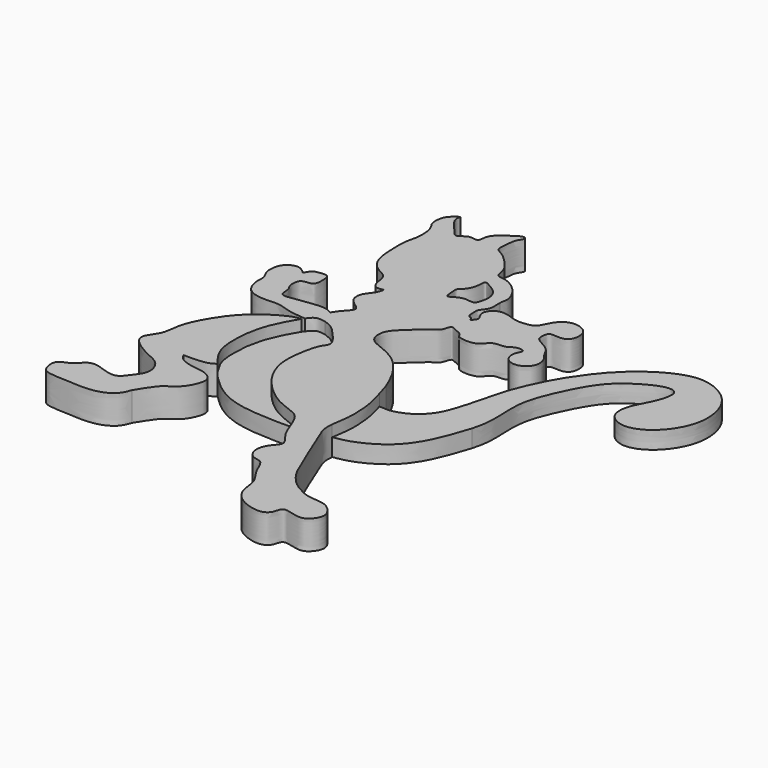
from build123d import *

# Parameters (mm, degrees)
F1_DEPTH = 8.382
F2_DEPTH = 5.08


with BuildPart() as f1:
    # F0 (on Top) → F1 (new body)
    with BuildSketch(Plane.XY):
        with BuildLine():
            add(Edge.make_bspline(
                [(-30.6766405702, 33.2564599812), (-31.3413036876, 33.1320931944), (-32.5782253901, 32.9006496653), (-33.8654036669, 33.8193248425), (-34.3694778358, 35.7624551061), (-34.3863487345, 37.1360827609), (-35.1923799163, 38.9015927856), (-37.0617365235, 39.7281938702), (-39.9424943412, 41.5929814185), (-41.5446330036, 45.4333418296), (-41.7570720515, 49.9837018923), (-41.8784530329, 54.7460837564), (-41.0405708566, 57.0577786823), (-40.7911931082, 60.2639953013), (-40.9434426039, 61.327236693), (-41.0056933761, 61.7619678378)],
                knots=[0, 0, 0, 0, 0.06671763, 0.1241598673, 0.1913384022, 0.2493362913, 0.3134739167, 0.3820785631, 0.4704085174, 0.5675468727, 0.6731650373, 0.7777710152, 0.8552476991, 0.9408146316, 1, 1, 1, 1], degree=3))
            add(Edge.make_bspline(
                [(-33.2912616432, 17.0474480838), (-32.7619607777, 17.8578643867), (-31.7196817617, 19.4537051679), (-28.9590219705, 21.9083301421), (-31.6294858689, 23.6614287989), (-33.6259584907, 25.3915392506), (-33.6865979894, 28.5475934375), (-31.2659788816, 30.9639459435), (-30.8610933715, 32.5389423378), (-30.6766405702, 33.2564599812)],
                knots=[0, 0, 0, 0, 0.1503681343, 0.2960991777, 0.4295792583, 0.5702847292, 0.7130662668, 0.8692822302, 1, 1, 1, 1], degree=3))
            add(Edge.make_bspline(
                [(-50.2869673073, 28.3451713622), (-49.9278704247, 29.0323980442), (-49.2496223987, 30.3304046909), (-47.6195850085, 30.7243879572), (-44.5993884328, 31.1444891856), (-44.5187037602, 28.3357639664), (-44.4785505157, 25.0921635909), (-47.8113997543, 25.4178459253), (-48.809757665, 24.0984490255), (-48.8770084638, 21.3899571322), (-47.5028810392, 20.0210596175), (-47.9954304371, 16.5159469081), (-44.2025487916, 17.0988400718), (-40.6767804952, 17.6290247992), (-35.6545276393, 18.3105881101), (-33.9888654298, 17.4203097366), (-33.2912616432, 17.0474480838)],
                knots=[0, 0, 0, 0, 0.0651782763, 0.1231061571, 0.192820447, 0.261105658, 0.3347754227, 0.4068035844, 0.4608341538, 0.5309008507, 0.5930949625, 0.6652009245, 0.7402731641, 0.8299875784, 0.9287963019, 1, 1, 1, 1], degree=3))
            add(Edge.make_bspline(
                [(-35.9442275826, 11.1240944408), (-37.5839272342, 11.2206024397), (-40.7133059149, 11.403787601), (-44.5353737189, 13.1657924862), (-48.4490777376, 12.569727537), (-54.7580383675, 13.2709584082), (-56.1856510525, 18.8926032585), (-55.5336805413, 21.0772556746), (-57.1594319584, 23.2052619362), (-57.2216005633, 26.0211025081), (-56.296959629, 29.0235320927), (-52.7030464794, 30.5454741786), (-51.0829924239, 29.0701046862), (-50.2869673073, 28.3451713622)],
                knots=[0, 0, 0, 0, 0.1056593846, 0.2017052822, 0.298028903, 0.413183266, 0.5207576306, 0.5916373543, 0.6659582427, 0.7460231306, 0.8294577539, 0.9162047999, 1, 1, 1, 1], degree=3))
            add(Edge.make_bspline(
                [(-31.4814224839, 12.7876922488), (-31.9110444218, 12.8751935142), (-32.8005612392, 13.0563617466), (-34.4706019273, 13.0061754325), (-35.3885476378, 11.8771587196), (-35.8539815263, 11.2488969536), (-35.9442275826, 11.1240944408)],
                knots=[0, 0, 0, 0, 0.0587413229, 0.1216218029, 0.1905048695, 0.2073552717, 0.2073552717, 0.2073552717, 0.2073552717], degree=3))
            add(Edge.make_bspline(
                [(-8.0787767996, -27.4609330144), (-8.8595777775, -26.7357062197), (-11.1664534508, -25.8006106136), (-16.1763048412, -24.0994295894), (-23.1737296328, -17.9282230836), (-26.7396045151, -10.5736807708), (-26.5901811331, -3.8148187925), (-25.1017264801, 2.931803867), (-22.8276895725, 4.9188025827), (-26.2040786581, 9.2433080974), (-29.1048658393, 12.0811019623), (-30.774127386, 12.5774015128), (-31.4814224839, 12.7876922488)],
                knots=[0.6492410765, 0.6492410765, 0.6492410765, 0.6492410765, 0.673526059, 0.710568626, 0.7584620106, 0.802939906, 0.8442562009, 0.8849478536, 0.9089591591, 0.9434385533, 0.976033933, 1, 1, 1, 1], degree=3))
            add(Edge.make_bspline(
                [(15.0585612282, -54.6975657344), (16.392013966, -55.455302175), (19.053480282, -56.9676842459), (23.7846544839, -56.6952692806), (26.6439186441, -58.5492646353), (28.546215152, -61.7094887223), (26.6620774707, -64.9631471273), (23.7587356285, -66.4834918921), (18.1225919802, -63.8654216821), (18.0622854392, -67.863124647), (15.0287090329, -69.9672365672), (7.6502362678, -67.5569575629), (5.2716674977, -62.6953962018), (5.4747056644, -58.4140716827), (1.9695584515, -54.4860574316), (0.572557137, -49.4485411848), (-2.7543315001, -49.7593564741), (-4.9130444241, -46.5808119184), (-3.7731702383, -42.5264248507), (-0.3041190407, -39.7790995728), (-4.7339637258, -36.1509116584), (-6.2161851578, -29.5111496098), (-7.8404901403, -27.6822594151), (-8.0787767996, -27.4609330144)],
                knots=[0, 0, 0, 0, 0.0336520411, 0.0671668153, 0.0956689803, 0.1241317643, 0.1525945483, 0.1805715387, 0.2151687201, 0.2407500013, 0.2685833975, 0.3106701769, 0.346256729, 0.3777317138, 0.4137793929, 0.4477408215, 0.4733328263, 0.5016498166, 0.5333556544, 0.5621797987, 0.5959573368, 0.6418297291, 0.6492410765, 0.6492410765, 0.6492410765, 0.6492410765], degree=3))
            add(Edge.make_bspline(
                [(1.3496457832, -25.5872774869), (1.2178413614, -26.7916681294), (1.2523426335, -29.15687183), (3.2024996845, -33.0234051457), (4.9322938559, -38.2483398694), (7.8457972936, -44.0773619468), (9.2292360254, -48.6008116099), (12.4232596441, -52.8864793873), (14.2555285607, -54.1456890501), (15.0585612282, -54.6975657344)],
                knots=[0.3870802323, 0.3870802323, 0.3870802323, 0.3870802323, 0.4628965552, 0.546065326, 0.642552216, 0.7460916049, 0.8357334601, 0.9280065298, 1, 1, 1, 1], degree=3))
            add(Edge.make_bspline(
                [(0.2809970935, -7.0899995308), (0.4464666089, -7.6510335546), (1.1017032626, -9.923183598), (2.0595523492, -13.8256359793), (2.2957506978, -20.824752715), (1.5043732838, -24.1734223875), (1.3496457832, -25.5872774869)],
                knots=[0.0673496222, 0.0673496222, 0.0673496222, 0.0673496222, 0.0974509285, 0.1909054182, 0.2980781335, 0.3870802323, 0.3870802323, 0.3870802323, 0.3870802323], degree=3))
            add(Edge.make_bspline(
                [(-0.88812795, -3.2492720056), (-0.4886788126, -4.5419980634), (-0.0892296752, -5.8347241212), (0.2809970935, -7.0899995308)],
                knots=[0, 0, 0, 0, 0.0673496222, 0.0673496222, 0.0673496222, 0.0673496222], degree=3))
            add(Edge.make_bspline(
                [(-6.1729894951, 44.7657778859), (-6.2537490014, 43.7873641368), (-5.8784744738, 41.9586892223), (-6.8504992806, 40.019721474), (-8.0498952269, 38.8060862283), (-7.8624284902, 37.1063632237), (-7.8865639914, 35.0055996017), (-6.4092043599, 34.9670658324), (-6.273043479, 33.6329964984), (-5.3386285218, 34.9654841121), (-4.9798548018, 35.6890782321), (-5.583695346, 36.6278238887), (-6.4444621158, 38.1995113466), (-5.7398521403, 40.0898928696), (-3.888480616, 41.5090499594), (-1.0757772684, 41.4099099873), (1.8154624808, 40.0626334634), (4.6605670024, 40.2422809029), (7.7771907669, 40.7652741928), (8.9453800024, 45.0778860653), (12.4871191867, 47.672502326), (16.0919486007, 46.8238410712), (18.1101342894, 45.0105642473), (18.1616543235, 40.8521227745), (15.376326067, 39.4951887824), (11.8029881873, 40.4040796842), (11.4874782681, 38.1831770156), (11.4205520662, 36.3530209005), (13.7733328333, 35.0994594579), (16.538330075, 33.5164967566), (17.4628868469, 30.8629809569), (19.2595685691, 29.2175209886), (19.6286054054, 25.7454751497), (17.5794958341, 23.8371649917), (15.6221497305, 22.9636582756), (12.5336549787, 23.6677473243), (11.5437890669, 26.4589775), (12.2730198515, 28.2766993318), (13.1189280302, 30.0232899452), (9.8110707841, 30.0307399873), (8.4735588519, 28.2648474525), (4.4154841534, 28.8239838287), (3.1889679269, 25.9499172893), (0.1269099654, 25.1706513227), (-3.3476636053, 25.685319464), (-3.5120066649, 27.3023876598), (-6.1325086131, 28.1703323403), (-7.6903575841, 29.1954196962), (-8.0640527286, 25.8813721827), (-10.2550297066, 25.0223440067), (-13.5191069725, 21.9190155736), (-16.73731839, 19.1827642669), (-18.2989751538, 16.3295766337), (-17.7322680441, 12.3166751663), (-13.1797572559, 10.7039093731), (-7.7672755367, 8.266780384), (-3.1020390748, 2.1556299616), (-1.5948231977, -1.5239894946), (-0.88812795, -3.2492720056)],
                knots=[0, 0, 0, 0, 0.018699926, 0.0346616368, 0.0486015491, 0.0631242187, 0.0781190824, 0.0899640586, 0.0995369458, 0.1113628794, 0.1215169991, 0.1326574254, 0.1472571936, 0.1623524811, 0.1787534595, 0.196986177, 0.2167497561, 0.2355134237, 0.2539611463, 0.2765135881, 0.2989534104, 0.3193285318, 0.3370876475, 0.3580511628, 0.3764431686, 0.3960581302, 0.410448311, 0.4248246999, 0.4422175183, 0.4620886608, 0.4801868243, 0.4973649316, 0.5169961977, 0.5348395927, 0.5509498468, 0.5696228477, 0.5875523765, 0.6034215083, 0.6159088946, 0.6330869963, 0.6496764256, 0.6703600959, 0.6884235154, 0.707969151, 0.7276402495, 0.7401486807, 0.7584132279, 0.770958141, 0.7884130773, 0.8052143337, 0.8287670329, 0.8518933205, 0.8714919337, 0.8919826085, 0.9153347084, 0.9426430863, 0.9731211554, 1, 1, 1, 1], degree=3))
            add(Edge.make_bspline(
                [(-41.0056933761, 61.7619678378), (-41.0386629702, 62.0591294718), (-41.1158422414, 62.7547618866), (-41.8142861882, 64.4330219273), (-42.7817207695, 65.5369728593), (-42.7676391801, 68.0973148347), (-42.1704862549, 70.3279191261), (-39.0933254859, 72.5523917117), (-39.8767626683, 71.2240895671), (-39.4916084152, 69.7782119357), (-38.351656484, 68.0540954037), (-36.3266044133, 66.1050612377), (-34.9190582835, 63.8270053723), (-33.3474829461, 64.8032763687), (-31.9004957161, 66.169729434), (-28.8409636821, 64.9059083251), (-29.1682391416, 68.5630112248), (-26.529238521, 70.8901565309), (-22.0247214392, 74.0427306342), (-21.2246429412, 72.5795984874), (-22.8697235638, 70.7737607446), (-22.7359877177, 68.0859881853), (-23.5164581309, 64.8612192008), (-20.643671269, 63.8598937847), (-17.3128994719, 60.4761977201), (-15.3559839727, 57.8348530007), (-15.1824966655, 54.4218239288), (-12.7909683142, 54.7750991185), (-8.9650775632, 52.9192480619), (-6.3972285833, 49.5383066433), (-5.6387038881, 46.690824388), (-6.1906327232, 45.3700813422), (-6.1729894951, 44.7657778859)],
                knots=[0, 0, 0, 0, 0.0213541132, 0.0499766695, 0.075973692, 0.1089287306, 0.1439506337, 0.179241401, 0.1969808899, 0.2233271035, 0.2542334969, 0.291473776, 0.3238911689, 0.3495244102, 0.3796477538, 0.4122312676, 0.4461461734, 0.488645943, 0.5362944444, 0.5556062838, 0.5872623818, 0.6234693389, 0.659490305, 0.6938320732, 0.7409471256, 0.781073914, 0.8165810588, 0.8456816045, 0.8897388384, 0.9344217948, 0.9702990359, 1, 1, 1, 1], degree=3))
        make_face()
        with BuildLine():
            add(Edge.make_bspline(
                [(-10.8569506556, 41.2209741771), (-11.4147845587, 40.9293049489), (-13.5049966148, 41.5750108991), (-15.7502278249, 40.7470870589), (-17.930666265, 39.1175191178), (-17.8800453526, 41.9921892545), (-18.3510727071, 44.0772340767), (-16.3943477811, 44.9696981861), (-15.1487769051, 48.3328834423), (-15.4657084844, 51.0999713441), (-13.2621354295, 49.7867932897), (-10.9515602651, 48.4838222294), (-9.7871861671, 46.4222704224), (-9.6393820291, 44.3390213156), (-10.1156224701, 42.738134191), (-10.4086249918, 41.4553858893), (-10.8569506556, 41.2209741771)],
                knots=[0, 0, 0, 0, 0.0767818994, 0.155854554, 0.2211009923, 0.2911176103, 0.3604204364, 0.4249805386, 0.5181240441, 0.5862988669, 0.6501384982, 0.7323080737, 0.80535108, 0.8740096085, 0.9382911368, 1, 1, 1, 1], degree=3))
        make_face(mode=Mode.SUBTRACT)
    extrude(amount=F1_DEPTH)


with BuildPart() as f1b:
    # F0 (on Top) → F1, piece 2 (new body)
    with BuildSketch(Plane.XY):
        with BuildLine():
            add(Edge.make_bspline(
                [(-36.4190484267, 10.4362616037), (-36.5654860704, 10.2137617534), (-37.2617097674, 9.1091561753), (-38.864663687, 6.129379414), (-40.7214060907, 2.0590395138), (-41.7984065109, -3.0590469665), (-42.0529265544, -8.5477672387), (-41.2990556593, -13.2550073898), (-39.1858843246, -16.5606210566), (-37.9907493007, -18.0042772902), (-37.4458953738, -18.662430346)],
                knots=[0.2371988555, 0.2371988555, 0.2371988555, 0.2371988555, 0.2646814074, 0.3655946716, 0.4736222846, 0.5891319618, 0.7082244783, 0.8183074037, 0.9171675814, 1, 1, 1, 1], degree=3))
            add(Edge.make_bspline(
                [(-44.5271134377, -40.7912433147), (-44.9347036216, -41.8937575872), (-45.847217933, -44.3620703481), (-51.073869767, -47.0096668427), (-59.256742889, -46.4254857019), (-63.8233238784, -46.2426384346), (-66.7163161978, -45.4356716373), (-67.4960007882, -40.0385767384), (-63.5324126052, -39.6220761682), (-61.5696963809, -36.8094412726), (-58.6499600551, -35.4804685631), (-52.0212757315, -39.0028223978), (-49.4085869179, -35.0177578178), (-46.5115281067, -31.6033635511), (-48.4122360148, -26.5086388294), (-52.8821895327, -24.9426676931), (-58.2513154857, -21.7868316325), (-59.9037361252, -18.520913141), (-56.1817062416, -14.7477310915), (-56.4740715466, -9.0497460298), (-52.2494863308, -0.9683752231), (-46.9227866364, 5.6789010923), (-39.0377286683, 10.252798793), (-37.0893762661, 10.3897628681), (-36.4190484267, 10.4362616037)],
                knots=[0, 0, 0, 0, 0.039058052, 0.0874443162, 0.1473177969, 0.1918171235, 0.2252144983, 0.2672872223, 0.3043541062, 0.3417411805, 0.377081379, 0.4297342629, 0.4709180709, 0.5137743644, 0.5576161204, 0.6028839308, 0.6545136542, 0.6899475564, 0.7339147346, 0.7827407966, 0.8442873559, 0.9068808506, 0.9679830853, 1, 1, 1, 1], degree=3))
            add(Edge.make_bspline(
                [(-46.1867749691, -20.1008021832), (-45.8276222811, -20.7346703023), (-44.9811961818, -22.228526641), (-40.660836971, -23.3871770094), (-37.5161141064, -23.3754303642), (-33.8416340746, -25.708604543), (-35.1163547034, -29.791736748), (-37.1892820435, -33.0570588436), (-40.6391744368, -34.8056745156), (-42.6716322731, -37.797518037), (-43.9089729259, -39.793904775), (-44.5271134377, -40.7912433147)],
                knots=[0, 0, 0, 0, 0.0895732004, 0.2110998948, 0.3198967212, 0.4315218564, 0.5454949252, 0.6625860405, 0.776940844, 0.8885659333, 1, 1, 1, 1], degree=3))
            add(Edge.make_bspline(
                [(-37.4458953738, -18.662430346), (-38.0483963204, -19.0383239311), (-39.4017725724, -19.8826801999), (-42.9245096211, -20.1588296338), (-45.1068177371, -20.1200118912), (-46.1867749691, -20.1008021832)],
                knots=[0, 0, 0, 0, 0.2884162476, 0.6478590654, 1, 1, 1, 1], degree=3))
        make_face()
    extrude(amount=F1_DEPTH)


with BuildPart() as f2:
    # F0 (on Top) → F2 (new body)
    with BuildSketch(Plane.XY):
        with BuildLine():
            add(Edge.make_bspline(
                [(-31.4814224839, 12.7876922488), (-31.9110444218, 12.8751935142), (-32.8005612392, 13.0563617466), (-34.4706019273, 13.0061754325), (-35.3885476378, 11.8771587196), (-35.8539815263, 11.2488969536), (-35.9442275826, 11.1240944408)],
                knots=[0, 0, 0, 0, 0.0587413229, 0.1216218029, 0.1905048695, 0.2073552717, 0.2073552717, 0.2073552717, 0.2073552717], degree=3))
            add(Edge.make_bspline(
                [(-35.9442275826, 11.1240944408), (-36.1040614965, 10.9030579224), (-36.2600302936, 10.6778764639), (-36.4190484267, 10.4362616037)],
                knots=[0.2073552717, 0.2073552717, 0.2073552717, 0.2073552717, 0.2371988555, 0.2371988555, 0.2371988555, 0.2371988555], degree=3))
            add(Edge.make_bspline(
                [(-36.4190484267, 10.4362616037), (-36.5654860704, 10.2137617534), (-37.2617097674, 9.1091561753), (-38.864663687, 6.129379414), (-40.7214060907, 2.0590395138), (-41.7984065109, -3.0590469665), (-42.0529265544, -8.5477672387), (-41.2990556593, -13.2550073898), (-39.1858843246, -16.5606210566), (-37.9907493007, -18.0042772902), (-37.4458953738, -18.662430346)],
                knots=[0.2371988555, 0.2371988555, 0.2371988555, 0.2371988555, 0.2646814074, 0.3655946716, 0.4736222846, 0.5891319618, 0.7082244783, 0.8183074037, 0.9171675814, 1, 1, 1, 1], degree=3))
            add(Edge.make_bspline(
                [(-37.4458953738, -18.662430346), (-36.0393506569, -20.0536832662), (-33.0401252487, -23.0206379101), (-26.071880794, -26.7033425944), (-15.7828730971, -27.5221907467), (-10.5193498352, -27.4768565052), (-8.0787767996, -27.4609330144)],
                knots=[0, 0, 0, 0, 0.2190981689, 0.4671251994, 0.7526377305, 1, 1, 1, 1], degree=3))
            add(Edge.make_bspline(
                [(-8.0787767996, -27.4609330144), (-8.8595777775, -26.7357062197), (-11.1664534508, -25.8006106136), (-16.1763048412, -24.0994295894), (-23.1737296328, -17.9282230836), (-26.7396045151, -10.5736807708), (-26.5901811331, -3.8148187925), (-25.1017264801, 2.931803867), (-22.8276895725, 4.9188025827), (-26.2040786581, 9.2433080974), (-29.1048658393, 12.0811019623), (-30.774127386, 12.5774015128), (-31.4814224839, 12.7876922488)],
                knots=[0.6492410765, 0.6492410765, 0.6492410765, 0.6492410765, 0.673526059, 0.710568626, 0.7584620106, 0.802939906, 0.8442562009, 0.8849478536, 0.9089591591, 0.9434385533, 0.976033933, 1, 1, 1, 1], degree=3))
        make_face()
    extrude(amount=F2_DEPTH)


with BuildPart() as f2b:
    # F0 (on Top) → F2, piece 2 (new body)
    with BuildSketch(Plane.XY):
        with BuildLine():
            add(Edge.make_bspline(
                [(0.2809970935, -7.0899995308), (1.3006964389, -7.1947244444), (3.5822636131, -7.4448525406), (8.5653542252, -5.637311252), (12.4175938163, -1.8906193963), (14.576949991, 3.3692676106), (16.7288375201, 11.8553726257), (18.2227312236, 18.1174368718), (21.989362939, 26.2580779699), (23.6732877933, 29.0389361787), (24.379145354, 30.2046015859)],
                knots=[0, 0, 0, 0, 0.0926351241, 0.2095280268, 0.3272216723, 0.450380371, 0.6017095545, 0.7369046379, 0.8897964091, 1, 1, 1, 1], degree=3))
            add(Edge.make_bspline(
                [(0.2809970935, -7.0899995308), (0.4464666089, -7.6510335546), (1.1017032626, -9.923183598), (2.0595523492, -13.8256359793), (2.2957506978, -20.824752715), (1.5043732838, -24.1734223875), (1.3496457832, -25.5872774869)],
                knots=[0.0673496222, 0.0673496222, 0.0673496222, 0.0673496222, 0.0974509285, 0.1909054182, 0.2980781335, 0.3870802323, 0.3870802323, 0.3870802323, 0.3870802323], degree=3))
            add(Edge.make_bspline(
                [(23.3953911811, -2.435577102), (22.4604589349, -5.3293837124), (20.5500301827, -11.2425516173), (15.4549509795, -19.9732102017), (6.554820766, -24.7409411481), (2.8897459606, -25.3368646286), (1.3496457832, -25.5872774869)],
                knots=[0, 0, 0, 0, 0.2622193412, 0.5358156924, 0.8049452269, 1, 1, 1, 1], degree=3))
            add(Edge.make_bspline(
                [(24.379145354, 30.2046015859), (26.0291757787, 32.6677352369), (29.3868138637, 37.679952728), (36.4223297235, 44.1858582868), (44.2437096122, 48.5083697491), (51.3863058827, 49.2569556942), (58.9054047322, 45.1693057424), (62.081177166, 38.3526279646), (62.0613485988, 31.0327482494), (58.3461774445, 24.2948939712), (53.1907432816, 20.4036671056), (48.0763834685, 19.7217716479), (43.5783622883, 22.844915991), (44.2556478466, 28.7290139908), (47.2213895983, 33.0908570788), (49.3914880645, 39.9419167232), (45.629436967, 41.5307162311), (38.8417970337, 38.2325919038), (32.2459776806, 33.3228946839), (26.6705859426, 22.0029799766), (23.6889404693, 13.550799377), (24.8400383562, 3.417553073), (23.8345705761, -0.6561985703), (23.3953911811, -2.435577102)],
                knots=[0, 0, 0, 0, 0.0535545505, 0.1089778683, 0.1619521861, 0.2087841275, 0.2592529524, 0.3072123638, 0.3547687757, 0.4037445733, 0.4485330516, 0.4877604943, 0.5262453778, 0.5667630904, 0.6098880023, 0.6543206233, 0.6837254823, 0.7314296199, 0.7835631232, 0.8461576652, 0.9005591733, 0.9565651302, 1, 1, 1, 1], degree=3))
        make_face()
    extrude(amount=F2_DEPTH)


solid = Compound([f1.part, f1b.part, f2.part, f2b.part])
